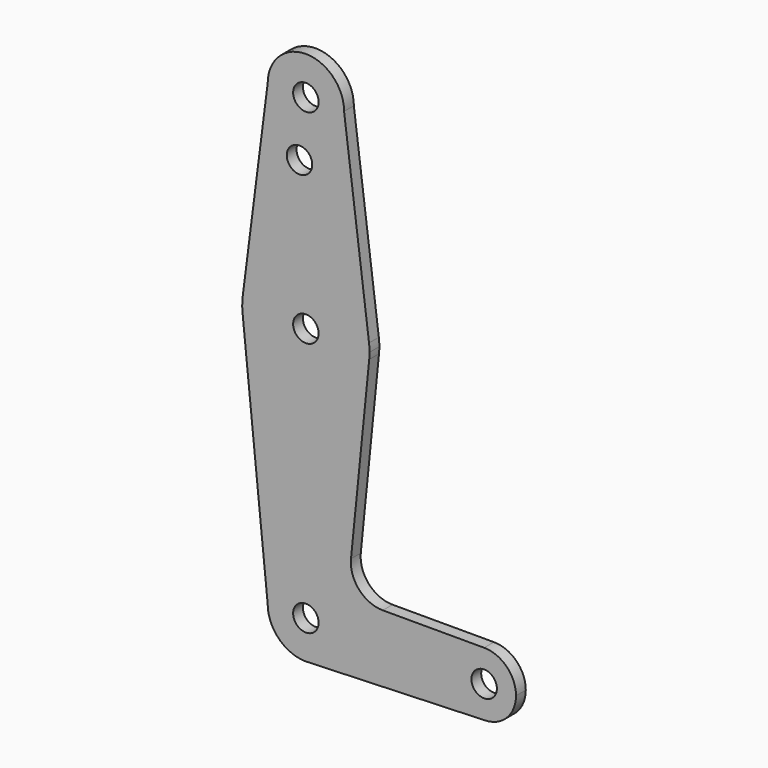
from build123d import *

# Parameters (mm, degrees)
F0_R     = 3.175
F1_DEPTH = 3.048


with BuildPart() as f1:
    # F0 (on Front) → F1 (new body)
    with BuildSketch(Plane.XZ):
        with BuildLine():
            ThreePointArc((-9.525, 114.3), (0, 104.775), (9.525, 114.3))
            ThreePointArc((9.525, 114.3), (0, 123.825), (-9.525, 114.3))
        make_face()
        with Locations((0, 114.3)):
            Circle(F0_R, mode=Mode.SUBTRACT)
        with BuildLine():
            Line((15.747457, 65.508289), (9.525, 114.3))
            ThreePointArc((9.525, 114.3), (0, 104.775), (-9.525, 114.3))
            Line((-9.525, 114.3), (-15.747457, 65.508289))
            ThreePointArc((-15.747457, 65.508289), (0, 79.375), (15.747457, 65.508289))
        make_face()
        with Locations((-1.5875, 100.0252)):
            Circle(F0_R, mode=Mode.SUBTRACT)
        with BuildLine():
            ThreePointArc((15.875, 63.5), (15.843082, 64.506168), (15.747457, 65.508289))
            ThreePointArc((15.747457, 65.508289), (0, 79.375), (-15.747457, 65.508289))
            ThreePointArc((-15.747457, 65.508289), (-15.873668, 63.705667), (-15.794203, 61.90038))
            ThreePointArc((-15.794203, 61.90038), (0, 47.625), (15.794203, 61.90038))
            ThreePointArc((15.794203, 61.90038), (15.854788, 62.699171), (15.875, 63.5))
        make_face()
        with Locations((0, 63.5)):
            Circle(F0_R, mode=Mode.SUBTRACT)
        with BuildLine():
            ThreePointArc((15.794203, 61.90038), (0, 47.625), (-15.794203, 61.90038))
            Line((-15.794203, 61.90038), (-9.525, 0))
            ThreePointArc((-9.525, 0), (0, 9.525), (9.525, 0))
            ThreePointArc((9.525, 0), (6.970557, -6.491299), (0.677344, -9.500886))
            Line((0.677344, -9.500886), (44.732405, -7.932475))
            ThreePointArc((44.732405, -7.932475), (36.513756, -0.141225), (44.45, 7.9375))
            Line((44.45, 7.9375), (19.160009, 7.9375))
            ThreePointArc((19.160009, 7.9375), (13.263984, 10.554543), (11.24966, 16.682719))
            Line((11.24966, 16.682719), (15.794203, 61.90038))
        make_face()
        with BuildLine():
            ThreePointArc((9.525, 0), (0, 9.525), (-9.525, 0))
            ThreePointArc((-9.525, 0), (-6.735192, -6.735192), (0, -9.525))
            Line((0, -9.525), (0.677344, -9.500886))
            ThreePointArc((0.677344, -9.500886), (6.970557, -6.491299), (9.525, 0))
        make_face()
        Circle(F0_R, mode=Mode.SUBTRACT)
        with BuildLine():
            ThreePointArc((52.3875, 0), (50.06266, 5.61266), (44.45, 7.9375))
            ThreePointArc((44.45, 7.9375), (36.513756, -0.141225), (44.732405, -7.932475))
            ThreePointArc((44.732405, -7.932475), (50.161633, -5.51191), (52.3875, 0))
        make_face()
        with Locations((44.45, 0)):
            Circle(F0_R, mode=Mode.SUBTRACT)
    extrude(amount=F1_DEPTH)


solid = f1.part
